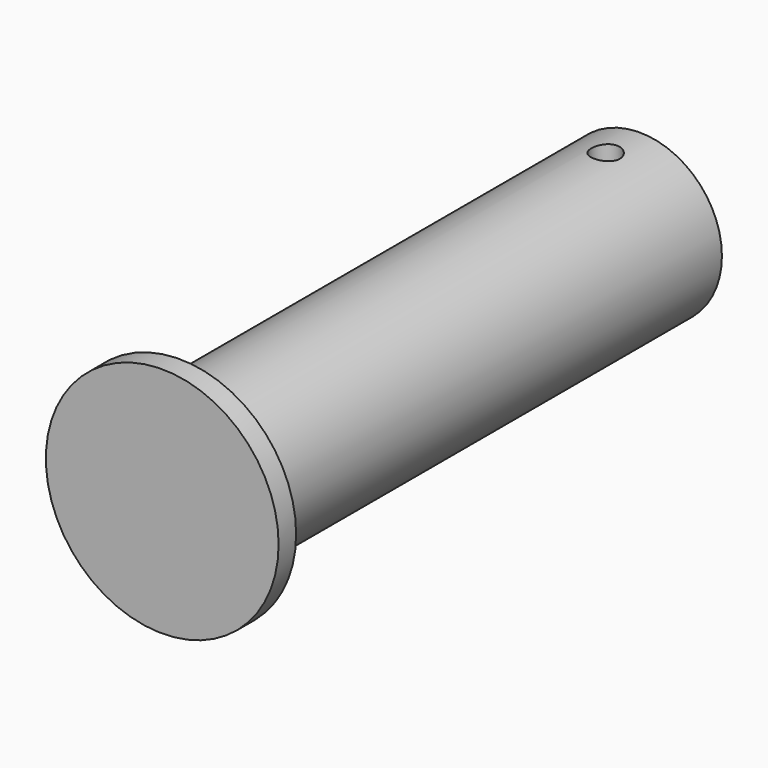
from build123d import *

# Parameters (mm, degrees)
F0_R     = 19.05
F1_DEPTH = 66.675
F2_R     = 26.9875
F3_DEPTH = 5.08
F4_R     = 3.302
F5_DEPTH = 38.1


with BuildPart() as f1:
    # F0 (on Front) → F1 (new body, symmetric)
    with BuildSketch(Plane.XZ):
        Circle(F0_R)
    extrude(amount=F1_DEPTH, both=True)

    # F2 (on face) → F3 (join)
    with BuildSketch(Plane.XZ.offset(66.675)):
        Circle(F2_R)
    extrude(amount=F3_DEPTH)

    # F4 (on Top) → F5 (cut, symmetric)
    with BuildSketch(Plane.XY):
        with Locations((0, 56.769)):
            Circle(F4_R)
    extrude(amount=F5_DEPTH, both=True, mode=Mode.SUBTRACT)


solid = f1.part
